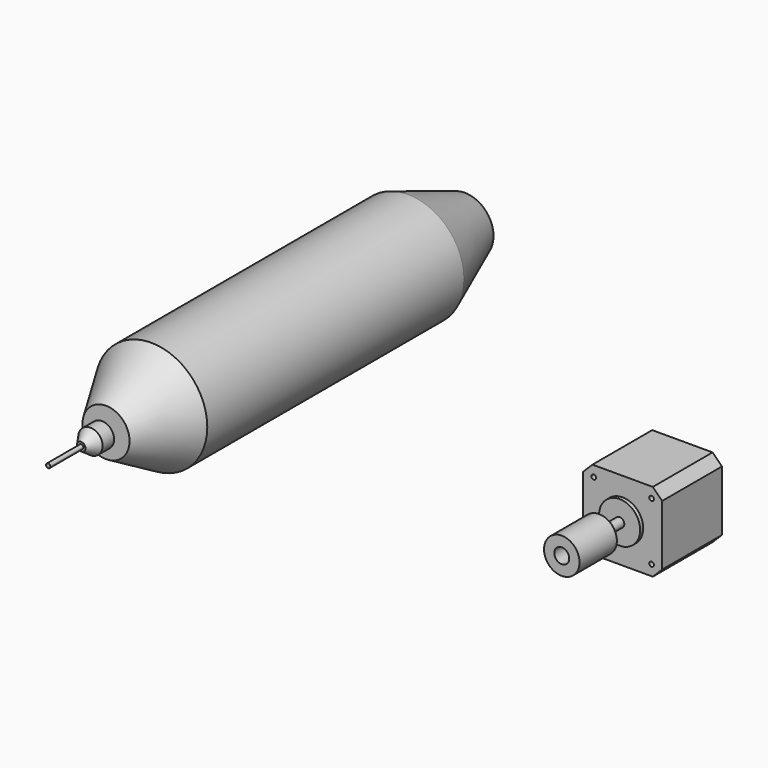
from build123d import *

# Parameters (mm, degrees)
F0_W     = 42.3
F0_H     = 42.3
F0_R     = 11
F0_R_2   = 2.5
F1_DEPTH = 40
F2_DEPTH = 2
F3_DEPTH = 24
F4_SIZE  = 5
F5_D     = 2.5
F5_DEPTH = 4.5
F5_TIP   = 0.7510757738
F6_SIZE  = 0.5
F9_W     = 1.1376658082
F9_H     = 22.1167653799


with BuildPart() as f1:
    # F0 (on Front) → F1 (new body)
    with BuildSketch(Plane.XZ):
        Rectangle(F0_W, F0_H)
        Circle(F0_R, mode=Mode.SUBTRACT)
        Circle(F0_R)
        Circle(F0_R_2, mode=Mode.SUBTRACT)
        Circle(F0_R_2)
    extrude(amount=-F1_DEPTH)

    # F0 (on Front) → F2 (join)
    with BuildSketch(Plane.XZ):
        Circle(F0_R)
        Circle(F0_R_2, mode=Mode.SUBTRACT)
    extrude(amount=F2_DEPTH)

    # F0 (on Front) → F3 (join)
    with BuildSketch(Plane.XZ):
        Circle(F0_R_2)
    extrude(amount=F3_DEPTH)

    # F4
    f4_edges = [f1.edges().sort_by_distance(p)[0] for p in [
        (21.15, 20, 21.15),
        (-21.15, 20, 21.15),
        (21.15, 20, -21.15),
        (-21.15, 20, -21.15),
    ]]
    chamfer(f4_edges, length=F4_SIZE)

    # F5
    with Locations(Plane.XZ):
        with Locations((-15.5, 15.5), (15.5, 15.5), (15.5, -15.5), (-15.5, -15.5)):
            Hole(F5_D / 2, depth=F5_DEPTH)
            with Locations((0, 0, -(F5_DEPTH + F5_TIP / 2))):  # 118° drill point
                Cone(0, F5_D / 2, F5_TIP, mode=Mode.SUBTRACT)

    # F6
    f6_edges = [f1.edges().sort_by_distance(p)[0] for p in [
        (-2.5, -24, 0),
    ]]
    chamfer(f6_edges, length=F6_SIZE)

    # F7 (on Right) → F8 (revolve)
    with BuildSketch(Plane.YZ):
        Polygon((-40.7108180225, 9.5), (-40.7108180225, 4), (-28.2108180225, 4), (-28.2108180225, 2.5), (-15.7108180225, 2.5), (-15.7108180225, 9.5), align=None)
    revolve(axis=Axis((0, -12.2175939753, 0), (0, -1, 0)))


with BuildPart() as f10:
    # F9 (on Top) → F10 (revolve)
    with BuildSketch(Plane.XY):
        Polygon((-203.0664789146, 167.4681340763), (-218.4696930647, 167.4681340763), (-218.4696930647, -89.0853926539), (-217.3320272565, -89.0853926539), (-216.1943614483, -89.0853926539), (-211.9574993849, -82.965478301), (-211.9574993849, -75.2763524652), (-215.5028455897, -75.2763524652), (-215.5028455897, -72.5318659237), (-205.8664813202, -72.5318659237), (-188.4696930647, -42.2765792686), (-188.4696930647, 129.4182986021), align=None)
        with Locations((-217.9008601606, -100.1437753439)):
            Rectangle(F9_W, F9_H)
    revolve(axis=Axis((-218.4696930647, -2.1318495274, 0), (0, -1, 0)))


solid = Compound([f1.part, f10.part])
